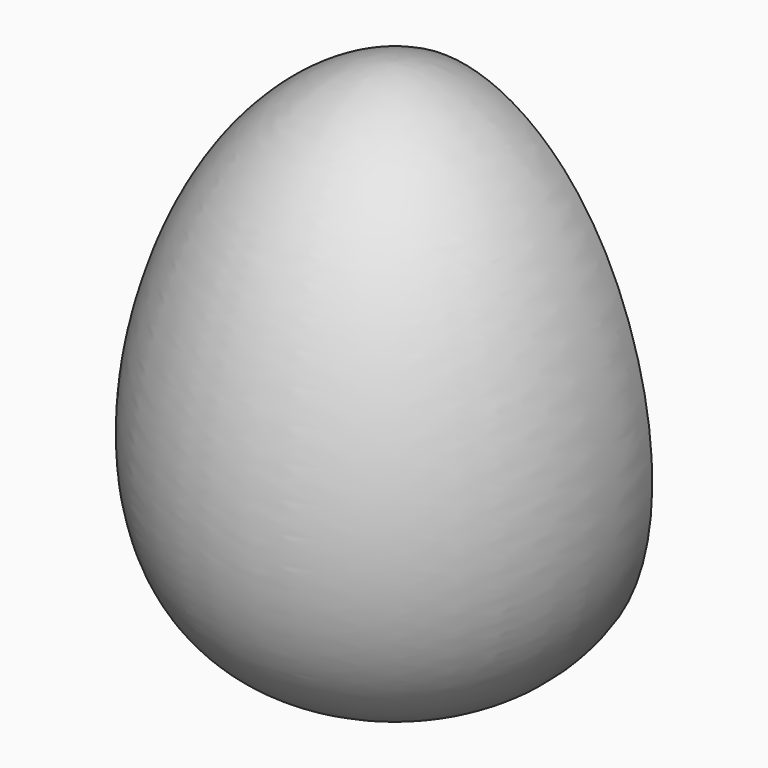
from build123d import *

# Parameters (mm, degrees)
F2_W     = 53.2300546146
F2_H     = 20.7044266909
F3_DEPTH = 45.0010001
F4_R     = 5.25
F5_DEPTH = 5.5


with BuildPart() as f1:
    # F0 (on Front) → F1 (revolve)
    with BuildSketch(Plane.XZ):
        with BuildLine():
            Line((0, 45), (0, 0))
            add(Edge.make_bspline(
                [(0, 0), (21.617282182, 0), (19.1166755219, 37.7468308249), (3.6069215275, 45), (0, 45)],
                knots=[0, 0, 0, 0, 0.5877574432, 1, 1, 1, 1], degree=3))
        make_face()
    revolve(axis=Axis((0, 0, 22.5), (0, 0, 1)))

    # F2 (on Top) → F3 (cut, through all)
    with BuildSketch(Plane.XY):
        with Locations((0.2590100903, 15.3522133455)):
            Rectangle(F2_W, F2_H)
    extrude(amount=F3_DEPTH, mode=Mode.SUBTRACT)


with BuildPart() as f5:
    # F4 (on Front) → F5 (new body)
    with BuildSketch(Plane.XZ):
        with Locations((0, 21.5498311445)):
            Circle(F4_R)
    extrude(amount=F5_DEPTH)


with BuildPart() as f5_1:
    # F7: moved
    add(f5.part.moved(Location((0, 3.5, 0))))


with BuildPart() as f1_1:
    add(f1.part)

    # F8: cut F5
    add(f5_1.part, mode=Mode.SUBTRACT)


solid = f1_1.part
